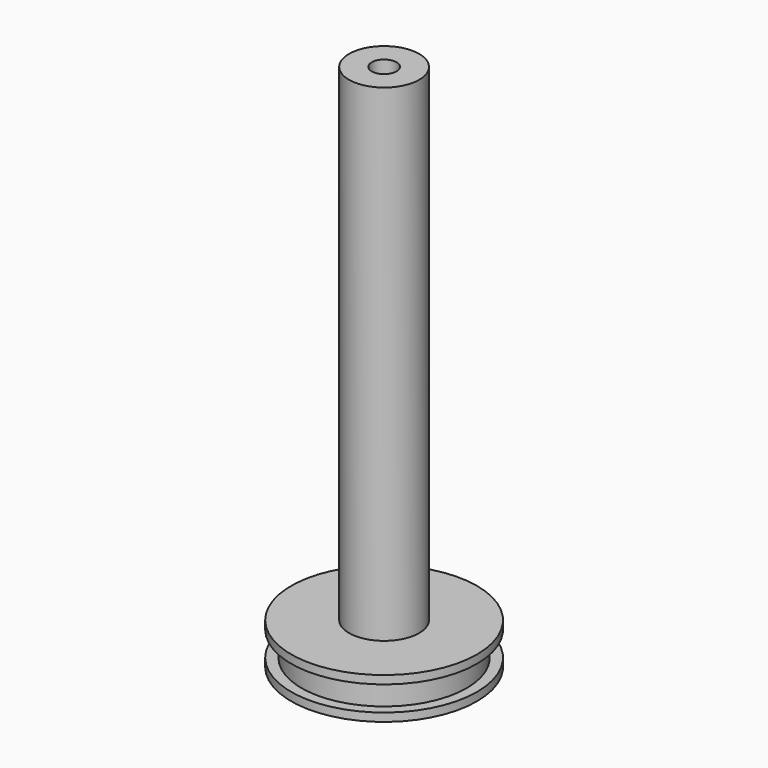
from build123d import *

# Parameters (mm, degrees)
F0_R     = 8.5
F0_R_2   = 3
F1_DEPTH = 133
F0_R_3   = 20
F2_DEPTH = 15
F3_R     = 22.5
F4_DEPTH = 7
F3_R_2   = 20
F5_DEPTH = 5
F6_R     = 22.5
F6_R_2   = 20
F7_DEPTH = 2
F8_R     = 3
F9_DEPTH = 140


with BuildPart() as f1:
    # F0 (on Top) → F1 (new body)
    with BuildSketch(Plane.XY):
        Circle(F0_R)
        Circle(F0_R_2, mode=Mode.SUBTRACT)
    extrude(amount=F1_DEPTH)

    # F0 (on Top) → F2 (join)
    with BuildSketch(Plane.XY):
        Circle(F0_R_3)
        Circle(F0_R, mode=Mode.SUBTRACT)
    extrude(amount=F2_DEPTH)

    # F3 (on face) → F4 (join)
    with BuildSketch(Plane.XY):
        Circle(F3_R)
    extrude(amount=F4_DEPTH)

    # F3 (on face) + F0 (on Top) → F5 (cut)
    with BuildSketch(Plane.XY):
        Circle(F3_R)
        Circle(F3_R_2, mode=Mode.SUBTRACT)
    with BuildSketch(Plane.XY):
        Circle(F0_R_3)
        Circle(F0_R, mode=Mode.SUBTRACT)
    extrude(amount=F5_DEPTH, mode=Mode.SUBTRACT)

    # F6 (on face) → F7 (join)
    with BuildSketch(Plane.XY.offset(15)):
        Circle(F6_R)
        Circle(F6_R_2, mode=Mode.SUBTRACT)
    extrude(amount=-F7_DEPTH)

    # F8 (on face) → F9 (cut)
    with BuildSketch(Plane.XY):
        Circle(F8_R)
    extrude(amount=F9_DEPTH, mode=Mode.SUBTRACT)


solid = f1.part
